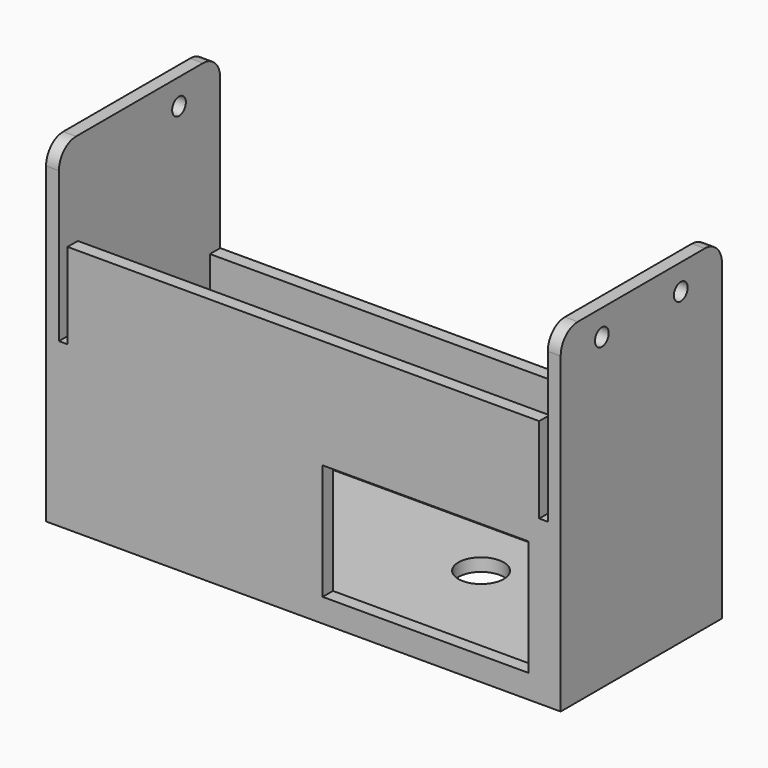
from build123d import *

# Parameters (mm, degrees)
F2_R      = 2
F3_DEPTH  = 3
F4_W      = 3
F4_H      = 35
F4_H_2    = 3
F4_W_2    = 41
F5_DEPTH  = 114
F6_R      = 2
F7_DEPTH  = 3
F8_W      = 110
F8_H      = 20
F9_DEPTH  = 3
F10_W     = 48
F10_H     = 27
F11_DEPTH = 3
F12_R     = 5.2787577195
F13_DEPTH = 3


with BuildPart() as f3:
    # F2 (on Right) → F3 (new body)
    with BuildSketch(Plane.YZ):
        with BuildLine():
            ThreePointArc((22.5, 35), (21.0355339059, 38.5355339059), (17.5, 40))
            Line((17.5, 40), (-19.5, 40))
            ThreePointArc((-19.5, 40), (-23.0355339059, 38.5355339059), (-24.5, 35))
            Line((-24.5, 35), (-24.5, -38))
            Line((-24.5, -38), (22.5, -38))
            Line((22.5, -38), (22.5, 35))
        make_face()
        with Locations((-12.5, 34)):
            Circle(F2_R, mode=Mode.SUBTRACT)
        with Locations((10.5, 34)):
            Circle(F2_R, mode=Mode.SUBTRACT)
    extrude(amount=F3_DEPTH)

    # F4 (on Right) → F5 (join)
    with BuildSketch(Plane.YZ):
        with Locations((-23, -17.5)):
            Rectangle(F4_W, F4_H)
        with Locations((21, -36.5)):
            Rectangle(F4_W, F4_H_2)
        with Locations((21, -17.5)):
            Rectangle(F4_W, F4_H)
        with Locations((-1, -36.5)):
            Rectangle(F4_W_2, F4_H_2)
        with Locations((-23, -36.5)):
            Rectangle(F4_W, F4_H_2)
    extrude(amount=-F5_DEPTH)

    # F6 (on face) → F7 (join)
    with BuildSketch(Plane(origin=(-114, 0, 0), x_dir=(0, -1, 0), z_dir=(-1, 0, 0))):
        with BuildLine():
            ThreePointArc((24.5, 35), (23.0355339059, 38.5355339059), (19.5, 40))
            Line((19.5, 40), (-17.5, 40))
            ThreePointArc((-17.5, 40), (-21.0355339059, 38.5355339059), (-22.5, 35))
            Line((-22.5, 35), (-22.5, -38))
            Line((-22.5, -38), (24.5, -38))
            Line((24.5, -38), (24.5, 35))
        make_face()
        with Locations((-10.5, 34)):
            Circle(F6_R, mode=Mode.SUBTRACT)
    extrude(amount=F7_DEPTH)

    # F8 (on face) → F9 (join)
    with BuildSketch(Plane.XZ.offset(24.5)):
        with Locations((-57, 10)):
            Rectangle(F8_W, F8_H)
    extrude(amount=-F9_DEPTH)

    # F10 (on face) → F11 (cut, through all)
    with BuildSketch(Plane.XZ.offset(24.5)):
        with Locations((-28.5, -19)):
            Rectangle(F10_W, F10_H)
    extrude(amount=-F11_DEPTH, mode=Mode.SUBTRACT)

    # F12 (on face) → F13 (cut, through all)
    with BuildSketch(Plane(origin=(0, 0, -38), x_dir=(1, 0, 0), z_dir=(0, 0, -1))):
        with Locations((-39.4231006503, -5.3282435983)):
            Circle(F12_R)
    extrude(amount=-F13_DEPTH, mode=Mode.SUBTRACT)


solid = f3.part
